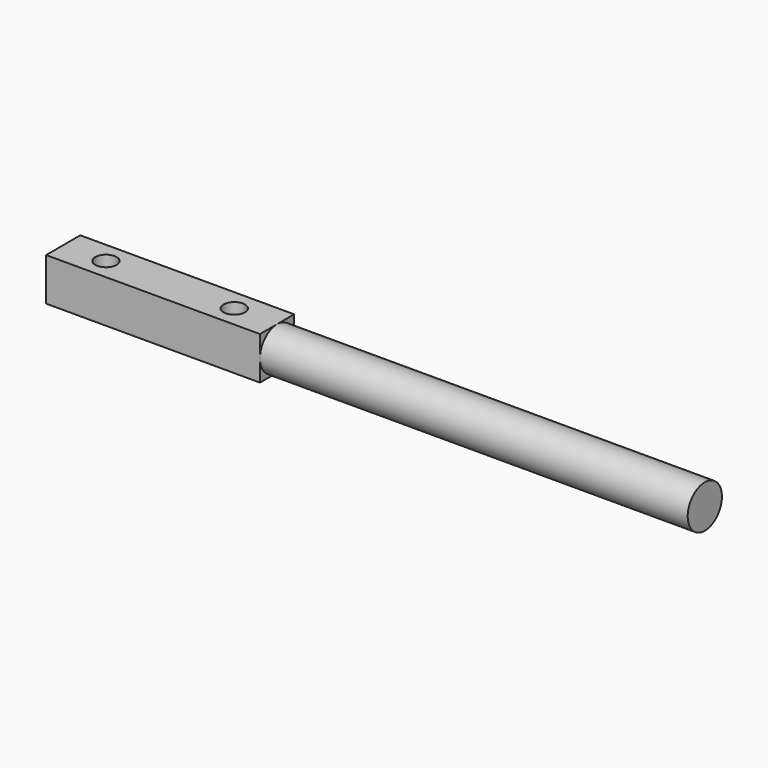
from build123d import *

# Parameters (mm, degrees)
F0_W     = 63.5
F0_H     = 12.7
F0_R     = 3.175
F1_DEPTH = 6.35
F2_W     = 127
F2_H     = 6.35


with BuildPart() as f1:
    # F0 (on Top) → F1 (new body, symmetric)
    with BuildSketch(Plane.XY):
        with Locations((-31.75, 0)):
            Rectangle(F0_W, F0_H)
        with Locations((-50.8, 0)):
            Circle(F0_R, mode=Mode.SUBTRACT)
        with Locations((-12.7, 0)):
            Circle(F0_R, mode=Mode.SUBTRACT)
    extrude(amount=F1_DEPTH, both=True)

    # F2 (on Top) → F3 (revolve)
    with BuildSketch(Plane.XY):
        with Locations((63.5, 3.175)):
            Rectangle(F2_W, F2_H)
    revolve(axis=Axis((63.5, 0, 0), (1, 0, 0)))


solid = f1.part
